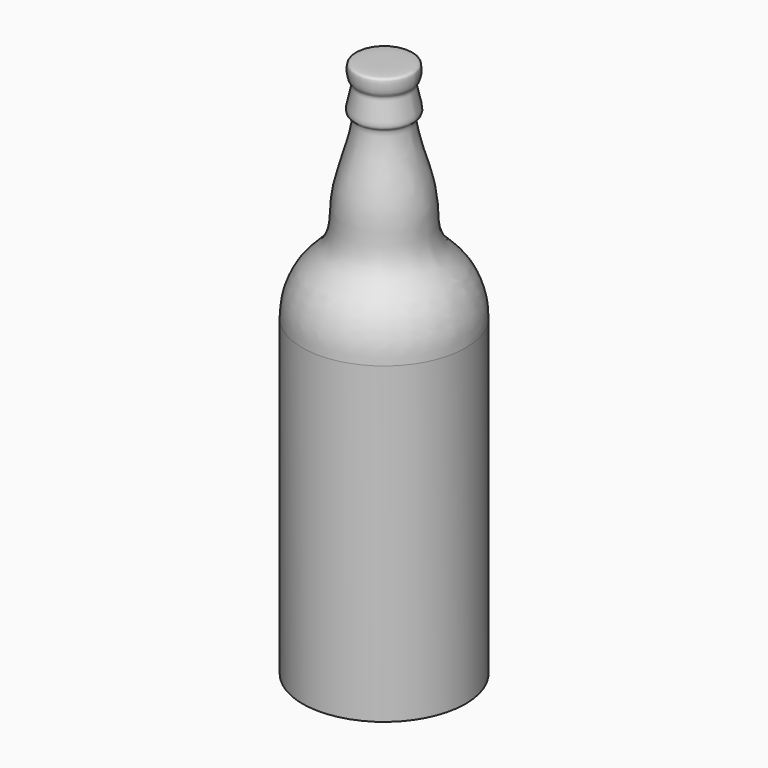
from build123d import *


with BuildPart() as f1:
    # F0 (on Front) → F1 (revolve)
    with BuildSketch(Plane.XZ):
        with BuildLine():
            Line((0, 234.7107438017), (0, 0))
            Line((0, 0), (35.5, 0))
            Line((35.5, 0), (35.5, 136.3619575284))
            add(Edge.make_bspline(
                [(35.5, 136.3619575284), (35.409470472, 138.6967888008), (35.1892300834, 144.615710818), (30.3440660174, 156.0647237641), (21.7667449481, 162.6642116691), (18.1921419277, 170.6415552466), (18.7489898212, 183.5397075003), (14.3084986319, 198.1641788925), (11.7867825772, 206.98504663), (10.3845096611, 214.4707042503), (14.5645025445, 214.9442211464), (9.9913135353, 226.4675679981), (12.61853013, 227.6501138781), (13.0962960279, 235.2244004007), (11.5017747234, 234.7107438017), (0, 234.7107438017)],
                knots=[0, 0, 0, 0, 0.0752154624, 0.1681888257, 0.2546259702, 0.3302840188, 0.4254256468, 0.5295167547, 0.6132466203, 0.6791896665, 0.7198106644, 0.8054002753, 0.8465620616, 0.9046817059, 1, 1, 1, 1], degree=3))
        make_face()
    revolve(axis=Axis((0, 0, 117.3553719008), (0, 0, -1)))


solid = f1.part
